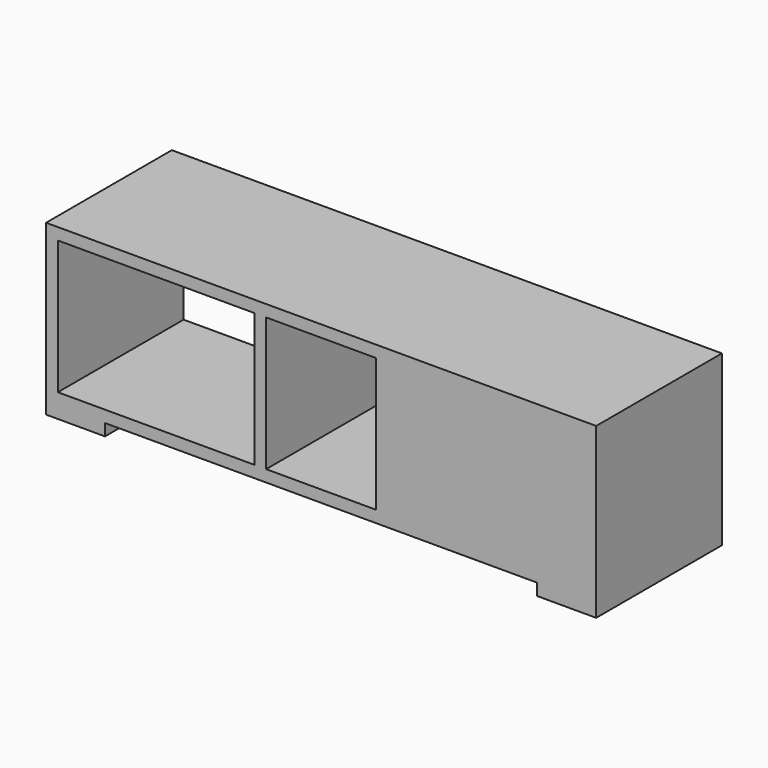
from build123d import *

# Parameters (mm, degrees)
F0_W     = 500
F0_H     = 340
F0_W_2   = 280
F0_W_3   = 150
F0_H_2   = 30
F1_DEPTH = 400


with BuildPart() as f1:
    # F0 (on Front) → F1 (new body)
    with BuildSketch(Plane.XZ):
        Polygon((698.162909, 183.718975), (-701.837091, 183.718975), (-701.837091, 143.844262), (-701.837091, 143.718975), (-701.837091, -216.281025), (-551.837091, -216.281025), (548.162909, -216.281025), (698.162909, -216.281025), (698.162909, -186.281025), (698.162909, 153.718975), align=None)
        with Locations((-421.837091, -16.281025)):
            Rectangle(F0_W, F0_H, mode=Mode.SUBTRACT)
        with Locations((-1.837091, -16.281025)):
            Rectangle(F0_W_2, F0_H, mode=Mode.SUBTRACT)
        with Locations((418.162909, -16.281025)):
            Rectangle(F0_W, F0_H, mode=Mode.SUBTRACT)
        with Locations((623.162909, -231.281025)):
            Rectangle(F0_W_3, F0_H_2)
        with Locations((418.162909, -16.281025)):
            Rectangle(F0_W, F0_H)
        with Locations((-626.837091, -231.281025)):
            Rectangle(F0_W_3, F0_H_2)
    extrude(amount=F1_DEPTH)


solid = f1.part
